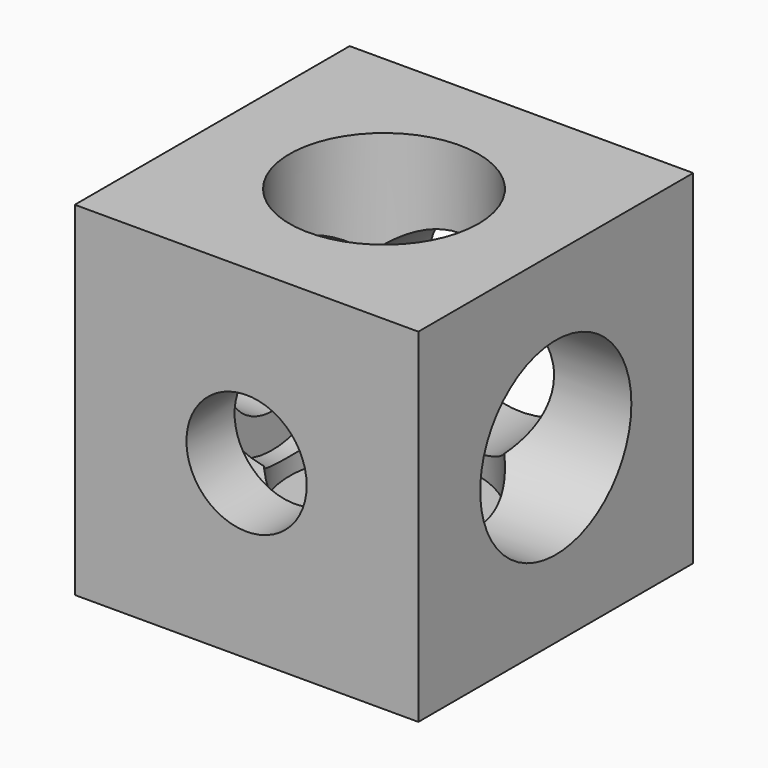
from build123d import *

# Parameters (mm, degrees)
F0_W      = 20
F0_H      = 20
F0_R      = 3.5
F1_DEPTH  = 20
F2_R      = 3.5
F3_DEPTH  = 20
F4_R      = 3.5
F5_DEPTH  = 20
F6_R      = 5.5
F6_R_2    = 3.5
F7_DEPTH  = 16.5
F8_R      = 5.5
F9_DEPTH  = 16.5
F10_R     = 5.5
F11_DEPTH = 16.5


with BuildPart() as f1:
    # F0 (on Top) → F1 (new body)
    with BuildSketch(Plane.XY):
        Rectangle(F0_W, F0_H)
        Circle(F0_R, mode=Mode.SUBTRACT)
    extrude(amount=F1_DEPTH)

    # F2 (on face) → F3 (cut)
    with BuildSketch(Plane.XZ.offset(10)):
        with Locations((0, 10)):
            Circle(F2_R)
    extrude(amount=-F3_DEPTH, mode=Mode.SUBTRACT)

    # F4 (on face) → F5 (cut)
    with BuildSketch(Plane(origin=(-10, 0, 0), x_dir=(0, -1, 0), z_dir=(-1, 0, 0))):
        with Locations((0, 10)):
            Circle(F4_R)
    extrude(amount=-F5_DEPTH, mode=Mode.SUBTRACT)

    # F6 (on face) → F7 (cut)
    with BuildSketch(Plane.XY.offset(20)):
        Circle(F6_R)
        Circle(F6_R_2, mode=Mode.SUBTRACT)
    extrude(amount=-F7_DEPTH, mode=Mode.SUBTRACT)

    # F8 (on face) → F9 (cut)
    with BuildSketch(Plane(origin=(0, 10, 0), x_dir=(-1, 0, 0), z_dir=(0, 1, 0))):
        with Locations((0, 10)):
            Circle(F8_R)
    extrude(amount=-F9_DEPTH, mode=Mode.SUBTRACT)

    # F10 (on face) → F11 (cut)
    with BuildSketch(Plane.YZ.offset(10)):
        with Locations((0, 10)):
            Circle(F10_R)
    extrude(amount=-F11_DEPTH, mode=Mode.SUBTRACT)


solid = f1.part
